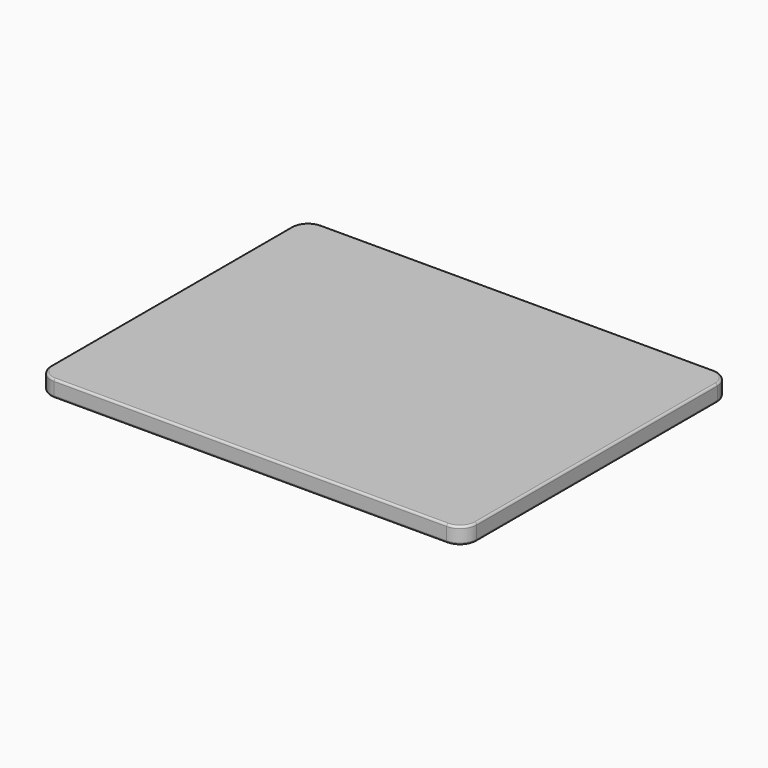
from build123d import *

# Parameters (mm, degrees)
F1_DEPTH = 12.7
F2_R     = 3.175


with BuildPart() as f1:
    # F0 (on Top) → F1 (new body, symmetric)
    with BuildSketch(Plane.XY):
        with BuildLine():
            ThreePointArc((323.85, 228.6), (316.410512, 246.560512), (298.45, 254))
            Line((298.45, 254), (-298.45, 254))
            ThreePointArc((-298.45, 254), (-316.410512, 246.560512), (-323.85, 228.6))
            Line((-323.85, 228.6), (-323.85, -228.6))
            ThreePointArc((-323.85, -228.6), (-316.410512, -246.560512), (-298.45, -254))
            Line((-298.45, -254), (298.45, -254))
            ThreePointArc((298.45, -254), (316.410512, -246.560512), (323.85, -228.6))
            Line((323.85, -228.6), (323.85, 228.6))
        make_face()
    extrude(amount=F1_DEPTH, both=True)

    # F2
    f2_edges = [f1.edges().sort_by_distance(p)[0] for p in [
        (0, -254, 12.7),
        (0, 254, -12.7),
    ]]
    fillet(f2_edges, radius=F2_R)


solid = f1.part
